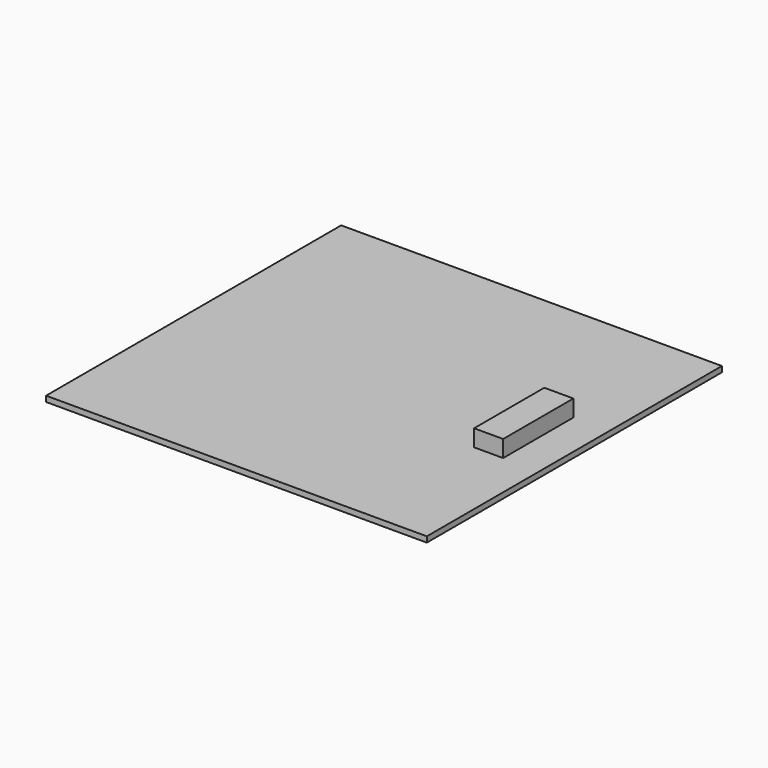
from build123d import *

# Parameters (mm, degrees)
F0_W     = 432.198376
F0_H     = 418.703168
F1_DEPTH = 6.35
F2_W     = 32.988757
F2_H     = 99.600598
F3_DEPTH = 25.4


with BuildPart() as f1:
    # F0 (on Top) → F1 (new body)
    with BuildSketch(Plane.XY):
        Rectangle(F0_W, F0_H)
    extrude(amount=F1_DEPTH)

    # F2 (on Top) → F3 (join)
    with BuildSketch(Plane.XY):
        with Locations((158.599674, 0)):
            Rectangle(F2_W, F2_H)
    extrude(amount=F3_DEPTH)


solid = f1.part
